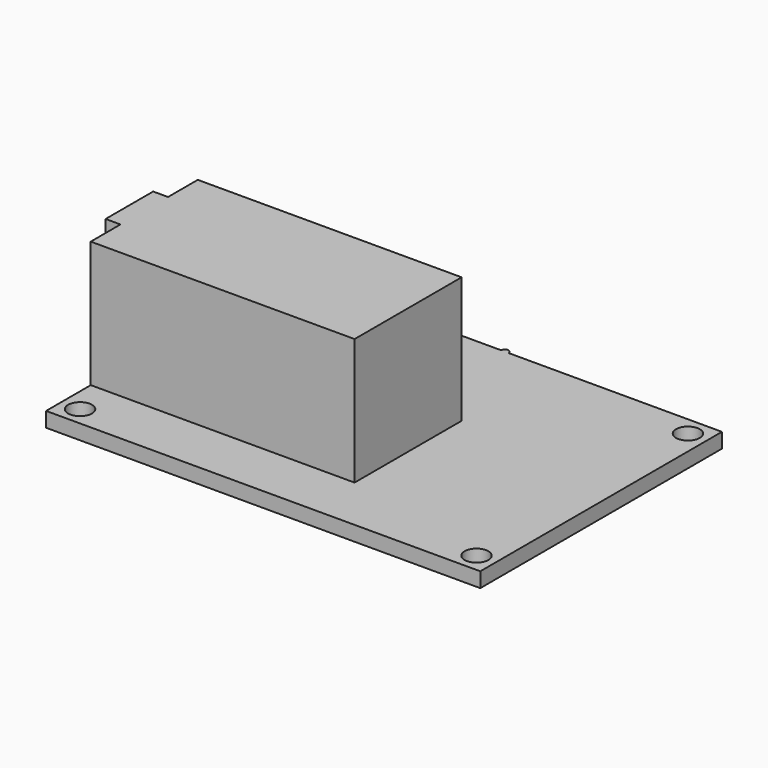
from build123d import *

# Parameters (mm, degrees)
F0_R     = 1.6
F1_DEPTH = 2
F3_W     = 35.5
F3_H     = 18
F4_DEPTH = 17
F6_W     = 8
F6_H     = 3
F7_DEPTH = 2


with BuildPart() as f1:
    # F0 (on Top) → F1 (new body)
    with BuildSketch(Plane.XY):
        with BuildLine():
            Line((-29.21, -20.32), (29.21, -20.32))
            Line((29.21, -20.32), (29.21, 20.32))
            Line((29.21, 20.32), (0.5, 20.32))
            ThreePointArc((0.5, 20.32), (0, 19.82), (-0.5, 20.32))
            Line((-0.5, 20.32), (-29.21, 20.32))
            Line((-29.21, 20.32), (-29.21, -20.32))
        make_face()
        with Locations((-26.67, -17.78)):
            Circle(F0_R, mode=Mode.SUBTRACT)
        with Locations((26.67, -17.78)):
            Circle(F0_R, mode=Mode.SUBTRACT)
        with Locations((-26.67, 17.78)):
            Circle(F0_R, mode=Mode.SUBTRACT)
        with Locations((26.67, 17.78)):
            Circle(F0_R, mode=Mode.SUBTRACT)
        with BuildLine():
            ThreePointArc((-0.5, 20.32), (0, 19.82), (0.5, 20.32))
            Line((0.5, 20.32), (-0.5, 20.32))
        make_face()
        with BuildLine():
            Line((-0.5, 20.32), (0.5, 20.32))
            ThreePointArc((0.5, 20.32), (0, 20.82), (-0.5, 20.32))
        make_face()
    extrude(amount=F1_DEPTH)

    # F3 (on offset) → F4 (join)
    with BuildSketch(Plane.XY.offset(2)):
        with Locations((-11.46, -3.81)):
            Rectangle(F3_W, F3_H)
    extrude(amount=F4_DEPTH)

    # F6 (on offset) → F7 (join)
    with BuildSketch(Plane(origin=(-29.21, 0, 0), x_dir=(0, -1, 0), z_dir=(-1, 0, 0))):
        with Locations((3.81, 17.5)):
            Rectangle(F6_W, F6_H)
    extrude(amount=F7_DEPTH)


solid = f1.part
